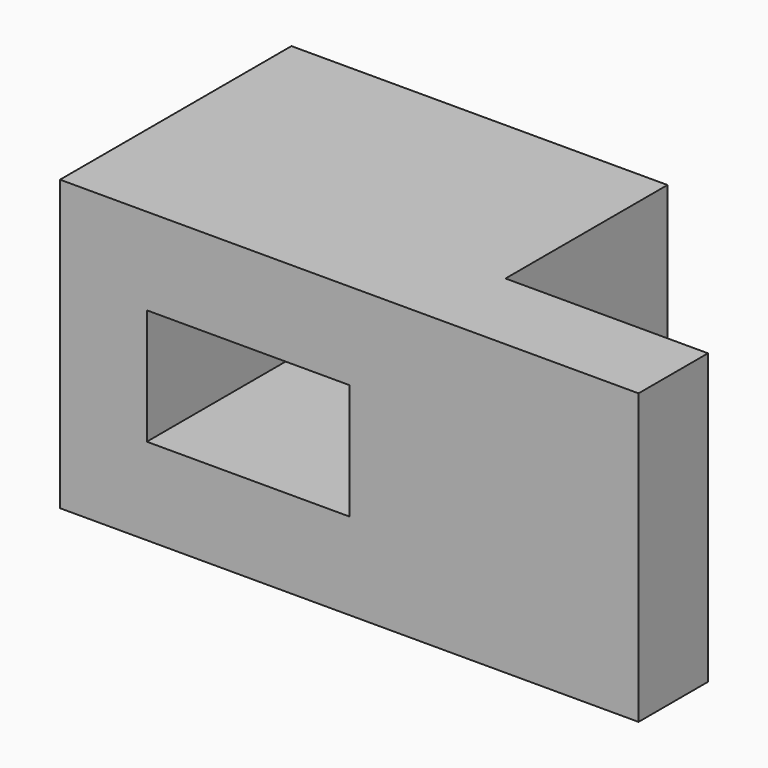
from build123d import *

# Parameters (mm, degrees)
F0_W     = 82.55
F0_H     = 63.5
F0_W_2   = 44.45
F0_H_2   = 25.4
F1_DEPTH = 63.5
F2_W     = 44.45
F2_H     = 63.5
F3_DEPTH = 19.05


with BuildPart() as f1:
    # F0 (on Front) → F1 (new body)
    with BuildSketch(Plane.XZ):
        with Locations((41.275, 31.75)):
            Rectangle(F0_W, F0_H)
        with Locations((41.275, 31.75)):
            Rectangle(F0_W_2, F0_H_2, mode=Mode.SUBTRACT)
    extrude(amount=F1_DEPTH)

    # F2 (on face) → F3 (join)
    with BuildSketch(Plane.XZ.offset(63.5)):
        with Locations((104.775, 31.75)):
            Rectangle(F2_W, F2_H)
    extrude(amount=-F3_DEPTH)


solid = f1.part
